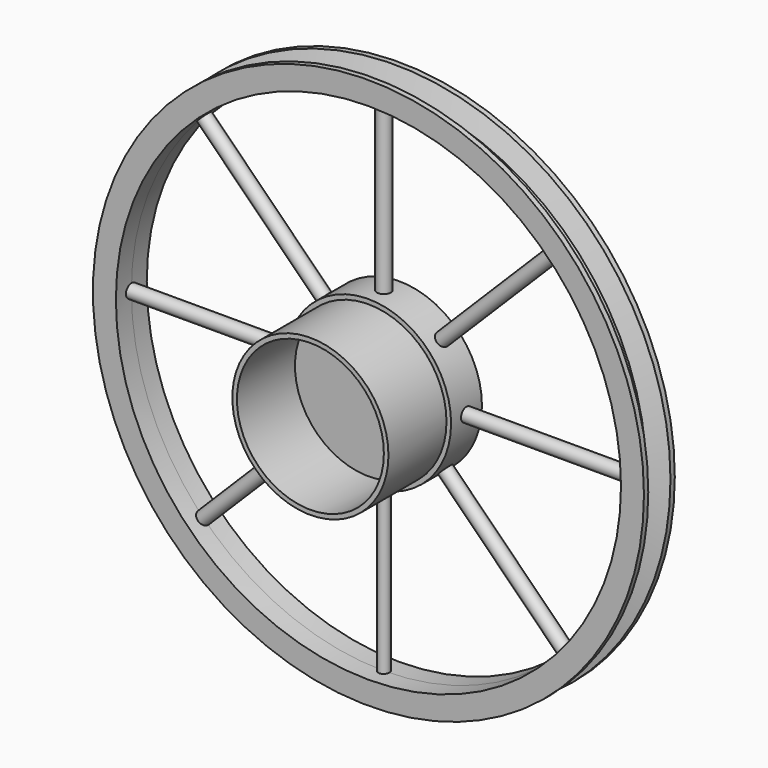
from build123d import *

# Parameters (mm, degrees)
F0_R     = 30
F0_R_2   = 27.5
F1_DEPTH = 2.1
F3_R     = 8.5
F3_R_2   = 8
F4_DEPTH = 10
F5_R     = 9
F6_DEPTH = 2.1
F7_R     = 9
F8_DEPTH = 2.1
F13_R    = 0.75
F28_R    = 0.75
F27_R    = 0.6
F26_R    = 0.75
F25_R    = 0.75
F24_R    = 0.75
F23_R    = 0.75
F22_R    = 0.75


with BuildPart() as f1:
    # F0 (on Front) → F1 (new body)
    with BuildSketch(Plane.XZ):
        Circle(F0_R)
        Circle(F0_R_2, mode=Mode.SUBTRACT)
    extrude(amount=F1_DEPTH)

    # F2: F1 across plane


with BuildPart() as f1_1:
    add(f1.part)
    add(f1.part.mirror(Plane.XZ))

    # F9 (on Right) → F10 (revolve, cut)
    with BuildSketch(Plane.YZ):
        Polygon((-1.6999973194, -30.5470529164), (0, -30.5470529164), (0, -27.9470529164), (-0.8, -27.9470529164), align=None)
        Polygon((0, -30.5470529164), (1.7000026806, -30.5470529164), (0.8, -27.9470529164), (0, -27.9470529164), align=None)
    revolve(axis=Axis((0, -1.5917905839, 0), (0, -1, 0)), mode=Mode.SUBTRACT)


with BuildPart() as f4:
    # F3 (on Front) → F4 (new body)
    with BuildSketch(Plane.XZ):
        Circle(F3_R)
        Circle(F3_R_2, mode=Mode.SUBTRACT)
    extrude(amount=F4_DEPTH)

    # F5 (on Front) → F6 (join)
    with BuildSketch(Plane.XZ):
        Circle(F5_R)
    extrude(amount=F6_DEPTH)

    # F7 (on Front) → F8 (join)
    with BuildSketch(Plane.XZ):
        Circle(F7_R)
    extrude(amount=-F8_DEPTH)


with BuildPart() as f14:
    # F14: sweep along a path in F11
    with BuildLine(Plane.XZ) as f14_path:
        Line((9, 0), (27.5, 0))
    # F13 (on line) → F14 (sweep)
    with BuildSketch(Plane.YZ.offset(9)):
        Circle(F13_R)
    sweep(path=f14_path.line)


with BuildPart() as f29:
    # F29: sweep along a path in F11
    with BuildLine(Plane.XZ) as f29_path:
        Line((6.8131908172, -5.8805128083), (19.9061828293, -18.9735048203))
    # F28 (on line) → F29 (sweep)
    with BuildSketch(Plane(origin=(6.3468518127, 0, -6.3468518127), x_dir=(0, 1, 0), z_dir=(0.7071067812, 0, -0.7071067812))):
        with Locations((0, 0.4794385867)):
            Circle(F28_R)
    sweep(path=f29_path.line)


with BuildPart() as f30:
    # F30: sweep along a path in F11
    with BuildLine(Plane.XZ) as f30_path:
        Line((0, -9), (0, -27.5))
    # F27 (on line) → F30 (sweep)
    with BuildSketch(Plane(origin=(0, 0, -9), x_dir=(1, 0, 0), z_dir=(0, 0, -1))):
        Circle(F27_R)
    sweep(path=f30_path.line)


with BuildPart() as f31:
    # F31: sweep along a path in F11
    with BuildLine(Plane.XZ) as f31_path:
        Line((-6.7128684512, -5.9947808264), (-19.8011652898, -19.0830776649))
    # F26 (on line) → F31 (sweep)
    with BuildSketch(Plane(origin=(-6.3538246388, 0, -6.3538246388), x_dir=(0.7071067812, 0, -0.7071067812), z_dir=(-0.7071067812, 0, -0.7071067812))):
        with Locations((-0.3127330392, 0)):
            Circle(F26_R)
    sweep(path=f31_path.line)


with BuildPart() as f32:
    # F32: sweep along a path in F11
    with BuildLine(Plane.XZ) as f32_path:
        Line((-9, 0), (-27.5, 0))
    # F25 (on line) → F32 (sweep)
    with BuildSketch(Plane(origin=(-9, 0, 0), x_dir=(0, -1, 0), z_dir=(-1, 0, 0))):
        Circle(F25_R)
    sweep(path=f32_path.line)


with BuildPart() as f33:
    # F33: sweep along a path in F11
    with BuildLine(Plane.XZ) as f33_path:
        Line((-6.5450241351, 6.1775933074), (-19.6282840295, 19.2608532017))
    # F24 (on line) → F33 (sweep)
    with BuildSketch(Plane(origin=(-6.3613087212, 0, 6.3613087212), x_dir=(0, -1, 0), z_dir=(-0.7071067812, 0, 0.7071067812))):
        with Locations((0, -0.1948109458)):
            Circle(F24_R)
    sweep(path=f33_path.line)


with BuildPart() as f34:
    # F34: sweep along a path in F11
    with BuildLine(Plane.XZ) as f34_path:
        Line((0, 9), (0, 27.5))
    # F23 (on line) → F34 (sweep)
    with BuildSketch(Plane.XY.offset(9)):
        Circle(F23_R)
    sweep(path=f34_path.line)


with BuildPart() as f35:
    # F35: sweep along a path in F11
    with BuildLine(Plane.XZ) as f35_path:
        Line((6.3048795356, 6.4224990496), (19.3865377949, 19.5041573088))
    # F22 (on line) → F35 (sweep)
    with BuildSketch(Plane(origin=(6.3636892926, 0, 6.3636892926), x_dir=(0.7071067812, 0, -0.7071067812), z_dir=(0.7071067812, 0, 0.7071067812))):
        Circle(F22_R)
    sweep(path=f35_path.line)


solid = Compound([f1_1.part, f4.part, f14.part, f29.part, f30.part, f31.part, f32.part, f33.part, f34.part, f35.part])
